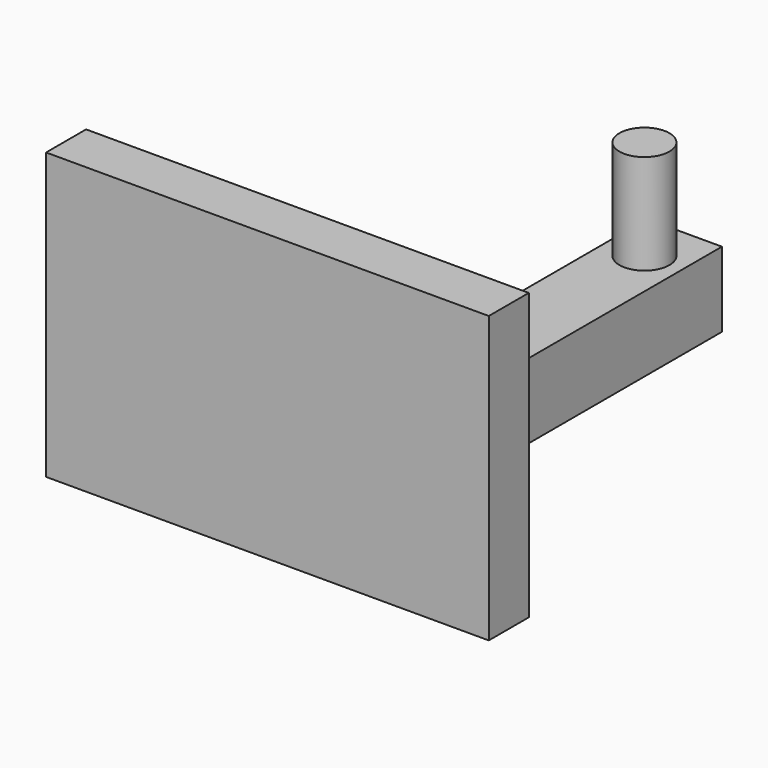
from build123d import *

# Parameters (mm, degrees)
F1_W     = 3
F1_H     = 18.8571428571
F1_R     = 1
F2_DEPTH = 3
F3_DEPTH = 11.4285714286
F4_DEPTH = 7


with BuildPart() as f2:
    # F1 (on Top) → F2 (new body)
    with BuildSketch(Plane.XY):
        with Locations((8.8571428571, 11.4285714286)):
            Rectangle(F1_W, F1_H)
        with Locations((8.8571428571, 18.8571428571)):
            Circle(F1_R, mode=Mode.SUBTRACT)
        Polygon((0, 2), (0, 0), (17.7142857143, 0), (17.7142857143, 2), (10.3571428571, 2), (7.3571428571, 2), align=None)
        with Locations((8.8571428571, 18.8571428571)):
            Circle(F1_R)
    extrude(amount=F2_DEPTH)

    # F1 (on Top) → F3 (join)
    with BuildSketch(Plane.XY):
        Polygon((0, 2), (0, 0), (17.7142857143, 0), (17.7142857143, 2), (10.3571428571, 2), (7.3571428571, 2), align=None)
    extrude(amount=F3_DEPTH)

    # F1 (on Top) → F4 (join)
    with BuildSketch(Plane.XY):
        with Locations((8.8571428571, 18.8571428571)):
            Circle(F1_R)
    extrude(amount=F4_DEPTH)


solid = f2.part
